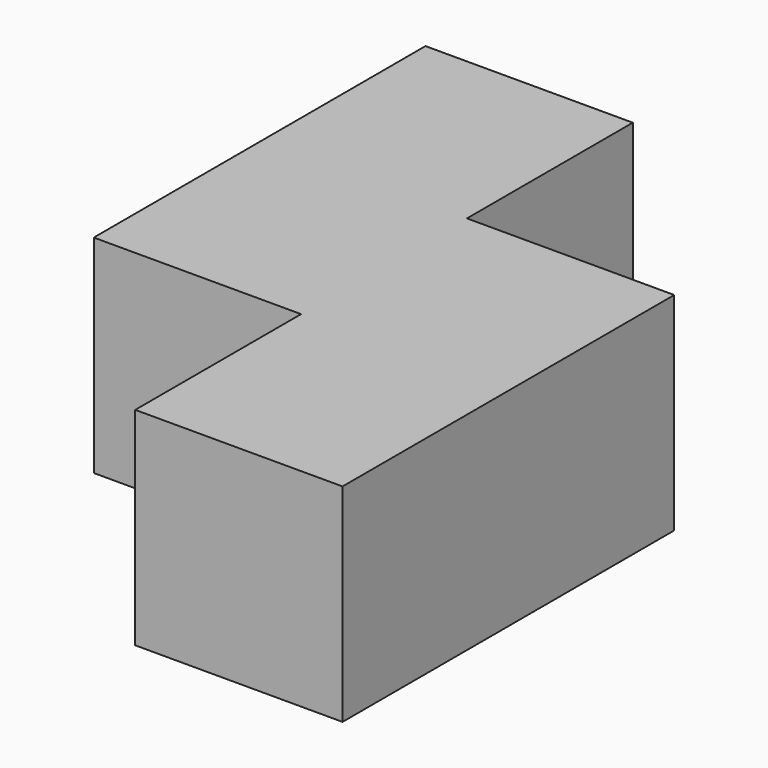
from build123d import *

# Parameters (mm, degrees)
BOX024_W     = 10
BOX024_H     = 10
BOX024_DEPTH = 10
BOX023_W     = 10
BOX023_H     = 10
BOX023_DEPTH = 10
BOX025_W     = 10
BOX025_H     = 10
BOX025_DEPTH = 10
BOX022_W     = 10
BOX022_H     = 10
BOX022_DEPTH = 10


with BuildPart() as cubo024:
    # Box024 → Box024 (new body)
    with BuildSketch(Plane(origin=(0, 10, 0), x_dir=(1, 0, 0), z_dir=(0, 0, 1))):
        with Locations((5, 5)):
            Rectangle(BOX024_W, BOX024_H)
    extrude(amount=BOX024_DEPTH)


with BuildPart() as cubo023:
    # Box023 → Box023 (new body)
    with BuildSketch(Plane(origin=(10, 10, 0), x_dir=(1, 0, 0), z_dir=(0, 0, 1))):
        with Locations((5, 5)):
            Rectangle(BOX023_W, BOX023_H)
    extrude(amount=BOX023_DEPTH)


with BuildPart() as cubo025:
    # Box025 → Box025 (new body)
    with BuildSketch(Plane(origin=(0, 20, 0), x_dir=(1, 0, 0), z_dir=(0, 0, 1))):
        with Locations((5, 5)):
            Rectangle(BOX025_W, BOX025_H)
    extrude(amount=BOX025_DEPTH)


with BuildPart() as fusion002005:
    # Box022 → Box022 (new body)
    with BuildSketch(Plane(origin=(10, 0, 0), x_dir=(1, 0, 0), z_dir=(0, 0, 1))):
        with Locations((5, 5)):
            Rectangle(BOX022_W, BOX022_H)
    extrude(amount=BOX022_DEPTH)

    # Fusion002005: union Cubo024, Cubo023, Cubo025
    add(cubo024.part)
    add(cubo023.part)
    add(cubo025.part)


with BuildPart() as fusion002005_1:
    # Fusion002005 placement: moved
    add(fusion002005.part.moved(Location((0, 40, 0))))


solid = fusion002005_1.part
